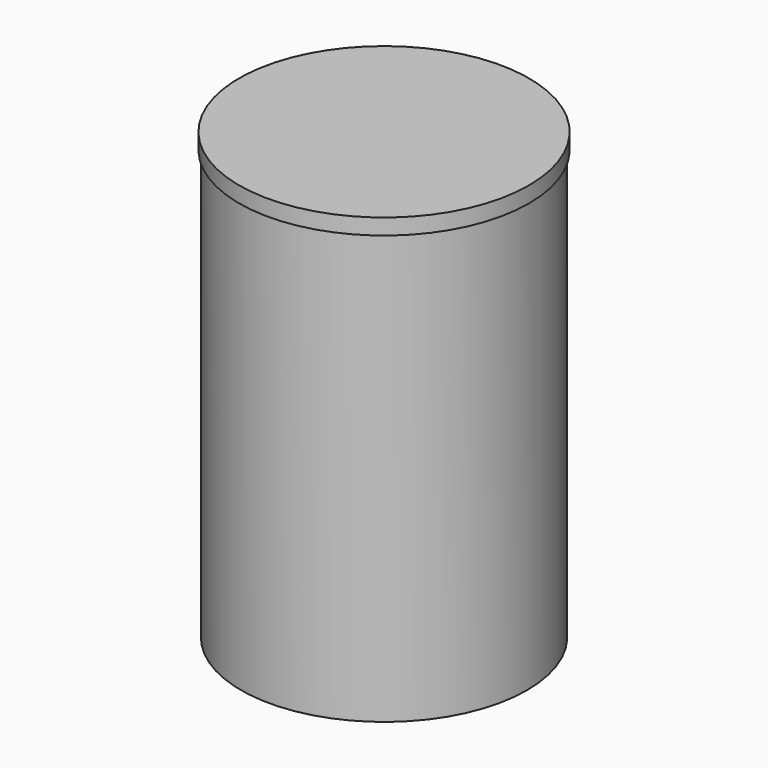
from build123d import *

# Parameters (mm, degrees)
CYLINDER_R      = 4.1
CYLINDER_DEPTH  = 3.1
SKETCH005_R     = 4.56
PAD002_DEPTH    = 0.5
SKETCH006_R     = 4.5
PAD003_DEPTH    = 13.5
SKETCH007_R     = 4.4
POCKET003_DEPTH = 13.5


with BuildPart() as part:
    # Cylinder → Cylinder (new body)
    with BuildSketch(Plane(origin=(-8, 0, 15.25), x_dir=(1, 0, 0), z_dir=(0, 0, 1))):
        Circle(CYLINDER_R)
    extrude(amount=CYLINDER_DEPTH)

    # Sketch005 → Pad002 (new body)
    with BuildSketch(Plane(origin=(-8, 0, 18.35), x_dir=(1, 0, 0), z_dir=(0, 0, 1))):
        Circle(SKETCH005_R)
    extrude(amount=PAD002_DEPTH)

    # Sketch006 → Pad003 (new body)
    with BuildSketch(Plane(origin=(-8, 0, 18.35), x_dir=(1, 0, 0), z_dir=(0, 0, -1))):
        Circle(SKETCH006_R)
    extrude(amount=PAD003_DEPTH)

    # Sketch007 → Pocket003 (cut)
    with BuildSketch(Plane(origin=(-8, 0, 4.85), x_dir=(1, 0, 0), z_dir=(0, 0, -1))):
        Circle(SKETCH007_R)
    extrude(amount=-POCKET003_DEPTH, mode=Mode.SUBTRACT)


solid = part.part
